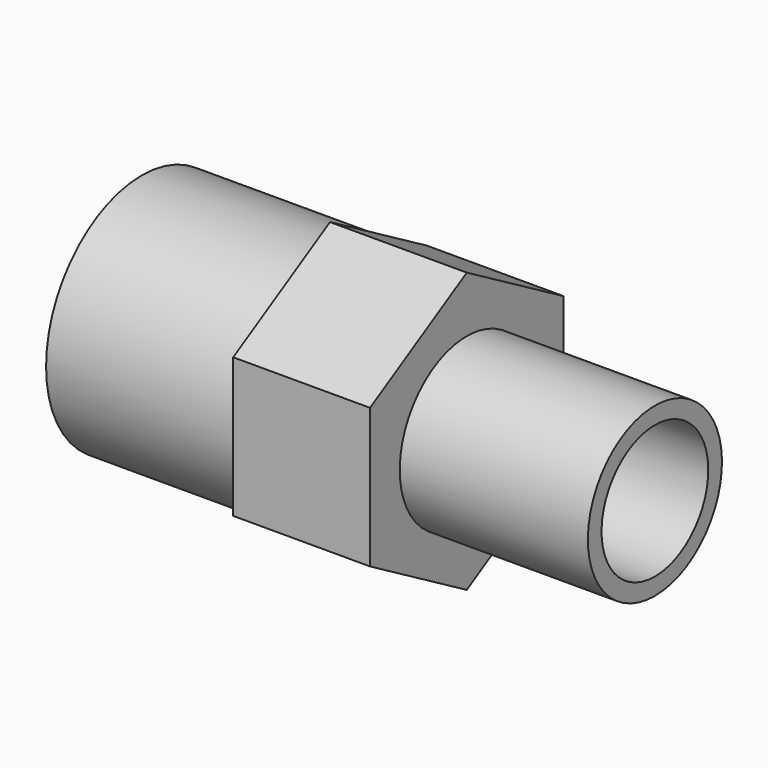
from build123d import *

# Parameters (mm, degrees)
CYLINDER003_R          = 5.85
CYLINDER003_DEPTH      = 30
CYLINDER002_R          = 9
CYLINDER002_DEPTH      = 30
CYLINDER001_R          = 7.35
CYLINDER001_DEPTH      = 25
LINEAREXTRUDE_DEPTH    = 12
CYLINDER_R             = 10.5
CYLINDER_DEPTH         = 25
DIFFERENCE_PITCH_ANGLE = 90


with BuildPart() as cylinder003:
    # cylinder003 → cylinder003 (new body)
    with BuildSketch(Plane.XY.offset(-5)):
        Circle(CYLINDER003_R)
    extrude(amount=CYLINDER003_DEPTH)


with BuildPart() as group001:
    # cylinder002 → cylinder002 (new body)
    with BuildSketch(Plane.XY.offset(-25)):
        Circle(CYLINDER002_R)
    extrude(amount=CYLINDER002_DEPTH)

    # Group001: union cylinder003
    add(cylinder003.part)


with BuildPart() as cylinder001:
    # cylinder001 → cylinder001 (new body)
    with BuildSketch(Plane.XY.offset(-2.5)):
        Circle(CYLINDER001_R)
    extrude(amount=CYLINDER001_DEPTH)


with BuildPart() as linearextrude:
    # RefineLinearExtrude → LinearExtrude (new body)
    with BuildSketch(Plane(origin=(0, 0, 0), x_dir=(0, -1, 0), z_dir=(0, 0, -1))):
        Polygon((-10.608811, -6.125), (0, -12.25), (10.608811, -6.125), (10.608811, 6.125), (0, 12.25), (-10.608811, 6.125), align=None)
    extrude(amount=-LINEAREXTRUDE_DEPTH)


with BuildPart() as linearextrude_1:
    # LinearExtrude placement: moved
    add(linearextrude.part.moved(Location((0, 0, -6))))


with BuildPart() as difference:
    # cylinder → cylinder (new body)
    with BuildSketch(Plane.XY.offset(-22.5)):
        Circle(CYLINDER_R)
    extrude(amount=CYLINDER_DEPTH)

    # Group: union cylinder001, LinearExtrude
    add(cylinder001.part)
    add(linearextrude_1.part)

    # difference: cut Group001
    add(group001.part, mode=Mode.SUBTRACT)


with BuildPart() as difference_1:
    # difference pitch: moved
    add(difference.part.rotate(Axis((0, 0, 0), (0, 1, 0)), DIFFERENCE_PITCH_ANGLE))


with BuildPart() as difference_2:
    # difference placement: moved
    add(difference_1.part)


solid = difference_2.part
